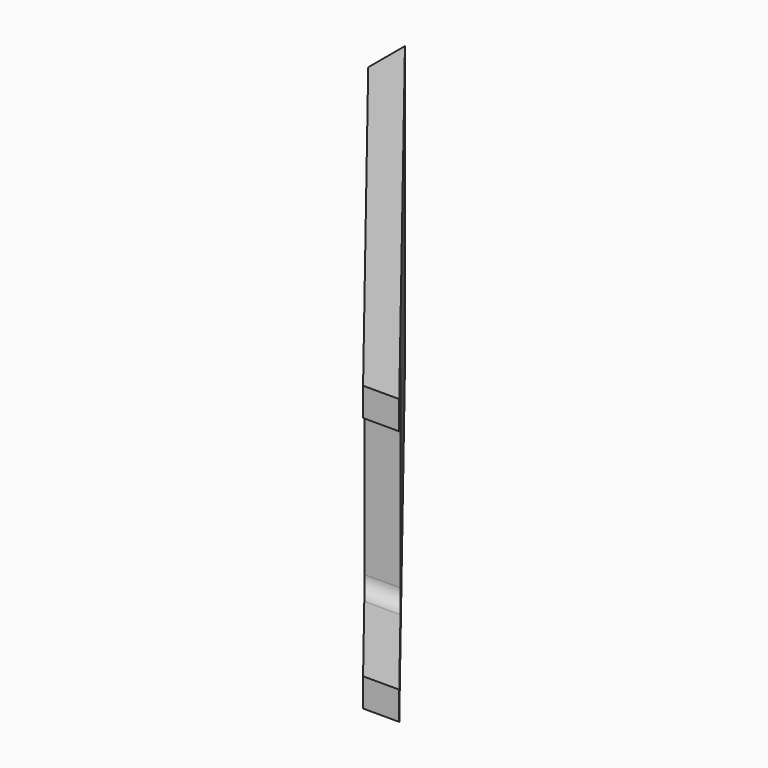
from build123d import *

# Parameters (mm, degrees)
F1_DEPTH = 200
F2_W     = 10.593976
F2_H     = 10
F3_DEPTH = 467


with BuildPart() as f1:
    # F0 (on Top) → F1 (new body)
    with BuildSketch(Plane.XY):
        Polygon((40, 297.683151), (274.538241, 0), (300, 0), (40, 330), align=None)
    extrude(amount=F1_DEPTH)

    # F2 (on Right) → F3 (cut)
    with BuildSketch(Plane.YZ):
        with BuildLine():
            ThreePointArc((0, 170), (2.928932, 177.071068), (10, 180))
            Line((10, 180), (-16.794052, 180))
            Line((-16.794052, 180), (-16.794052, 171.051905))
            Line((-16.794052, 171.051905), (0, 170))
        make_face()
        with Locations((-5.296988, 25)):
            Rectangle(F2_W, F2_H)
        with BuildLine():
            Line((80, 30), (80, 170))
            ThreePointArc((80, 170), (77.071068, 177.071068), (70, 180))
            Line((70, 180), (10, 180))
            ThreePointArc((10, 180), (2.928932, 177.071068), (0, 170))
            Line((0, 170), (0, 100))
            Line((0, 100), (0, 30))
            ThreePointArc((0, 30), (2.928932, 22.928932), (10, 20))
            Line((10, 20), (70, 20))
            ThreePointArc((70, 20), (77.071068, 22.928932), (80, 30))
        make_face()
        with BuildLine():
            Line((0, 20), (10, 20))
            ThreePointArc((10, 20), (2.928932, 22.928932), (0, 30))
            Line((0, 30), (0, 20))
        make_face()
    extrude(amount=F3_DEPTH, mode=Mode.SUBTRACT)


solid = f1.part
